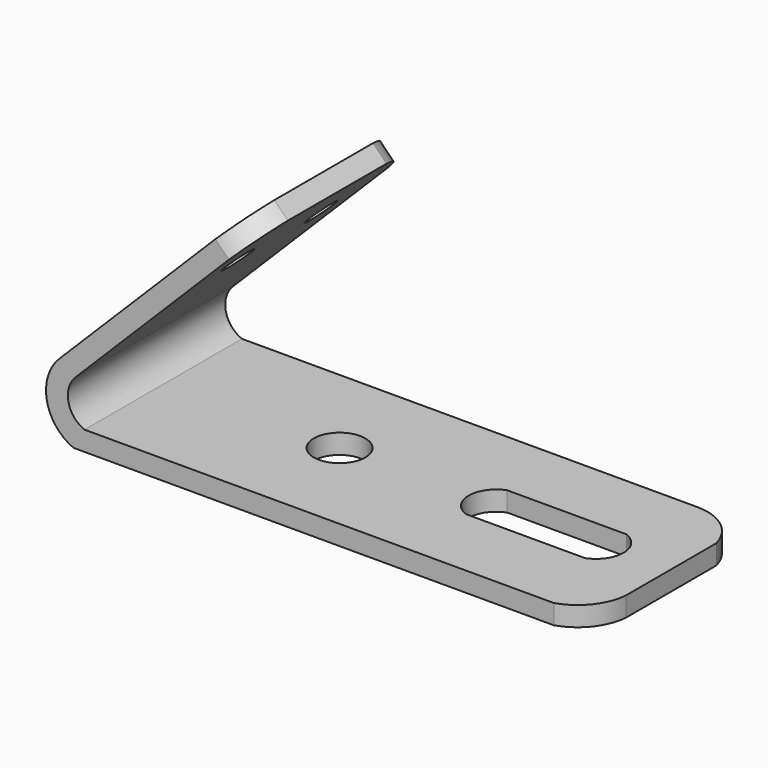
from build123d import *

# Parameters (mm, degrees)
F1_DEPTH = 483.87
F2_R     = 63.5
F2_W     = 292.9965630609
F2_H     = 127
F3_DEPTH = 48.261
F4_R     = 38.1
F5_DEPTH = 78.74
F6_DEPTH = 483.871


with BuildPart() as f1:
    # F0 (on Front) → F1 (new body)
    with BuildSketch(Plane.XZ):
        with BuildLine():
            Line((769.3116354294, -399.2148596497), (769.3116354294, -350.9548596497))
            Line((769.3116354294, -350.9548596497), (-473.3476042747, -350.9548596497))
            ThreePointArc((-473.3476042747, -350.9548596497), (-513.072288863, -303.7029004261), (-495.3859384083, -244.5590822901))
            Line((-495.3859384083, -244.5590822901), (-46.3731323549, 204.4537237633))
            Line((-46.3731323549, 204.4537237633), (-86.3926232658, 231.4253374939))
            Line((-86.3926232658, 231.4253374939), (-535.4054293192, -217.5874685596))
            ThreePointArc((-535.4054293192, -217.5874685596), (-566.1518276604, -317.596153827), (-500.6883645706, -399.2148596497))
            Line((-500.6883645706, -399.2148596497), (769.3116354294, -399.2148596497))
        make_face()
    extrude(amount=-F1_DEPTH)

    # F2 (on face) → F3 (cut, through all)
    with BuildSketch(Plane.XY.offset(-350.9548596497)):
        with Locations((-43.4883645706, 246.7185220676)):
            Circle(F2_R)
        with Locations((464.5116354294, 246.7185220676)):
            Rectangle(F2_W, F2_H)
        with BuildLine():
            ThreePointArc((611.0099169598, 183.2185220676), (655.0116354294, 246.7185220676), (611.0099169598, 310.2185220676))
            Line((611.0099169598, 310.2185220676), (611.0099169598, 183.2185220676))
        make_face()
        with BuildLine():
            Line((318.013353899, 183.2185220676), (318.013353899, 310.2185220676))
            ThreePointArc((318.013353899, 310.2185220676), (274.0116354294, 246.7185220676), (318.013353899, 183.2185220676))
        make_face()
        with BuildLine():
            ThreePointArc((647.7836660054, 483.87), (724.587147216, 456.9907780756), (769.3116354294, 389.0129327774))
            Line((769.3116354294, 389.0129327774), (769.3116354294, 483.87))
            Line((769.3116354294, 483.87), (647.7836660054, 483.87))
        make_face()
        with BuildLine():
            Line((769.3116354294, 0), (769.3116354294, 110.9018325806))
            ThreePointArc((769.3116354294, 110.9018325806), (742.030303117, 41.9598138448), (680.9021830559, 0))
            Line((680.9021830559, 0), (769.3116354294, 0))
        make_face()
    extrude(amount=-F3_DEPTH, mode=Mode.SUBTRACT)

    # F4 (on face) → F5 (cut)
    with BuildSketch(Plane(origin=(-158.9089803798, 0, 158.9089803798), x_dir=(0, -1, 0), z_dir=(-0.7071067812, 0, 0.7071067812))):
        with Locations((-369.57, -87.9463842754)):
            Circle(F4_R)
        with Locations((-114.3, -87.9463842754)):
            Circle(F4_R)
        with BuildLine():
            ThreePointArc((-99.5377227664, 102.5536157246), (-36.434263942, 70.8775530516), (0, 10.3964496136))
            Line((0, 10.3964496136), (0, 102.5536157246))
            Line((0, 102.5536157246), (-99.5377227664, 102.5536157246))
        make_face()
        with BuildLine():
            ThreePointArc((-483.87, 16.0886850208), (-454.0610525131, 69.3496689518), (-402.8477370739, 102.5536157246))
            Line((-402.8477370739, 102.5536157246), (-483.87, 102.5536157246))
            Line((-483.87, 102.5536157246), (-483.87, 16.0886850208))
        make_face()
    extrude(amount=-F5_DEPTH, mode=Mode.SUBTRACT)

    # F6 (cut, through all): a face of the model
    f6_faces = [f1.faces().sort_by_distance(p)[0] for p in [
        (-61.8876088552, 0, 211.2696154768),
    ]]
    extrude(f6_faces, amount=-F6_DEPTH, mode=Mode.SUBTRACT)


solid = f1.part
